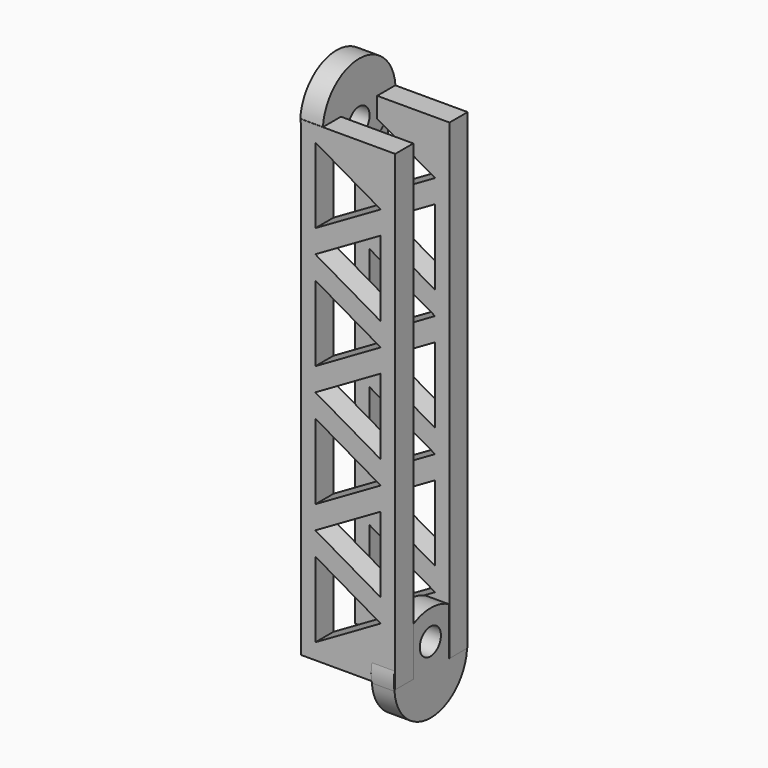
from build123d import *

# Parameters (mm, degrees)
SKETCH019_R      = 3.5
EXTRUDE018_DEPTH = 6
SKETCH018_W      = 25
SKETCH018_H      = 125
EXTRUDE017_DEPTH = 6
SKETCH020_R      = 3.5
EXTRUDE019_DEPTH = 6


with BuildPart() as union_parte_arriba:
    # Sketch019 → Extrude018 (new body)
    with BuildSketch(Plane.YZ):
        with BuildLine():
            ThreePointArc((82.036674, 148.659016), (70.036674, 159.65499), (58.036674, 148.659016))
            ThreePointArc((58.036674, 148.659016), (70.036674, 137.663042), (82.036674, 148.659016))
        make_face()
        with Locations((69.991982, 144.998688)):
            Circle(SKETCH019_R, mode=Mode.SUBTRACT)
    extrude(amount=EXTRUDE018_DEPTH)


with BuildPart() as union_parte_arriba_1:
    # Extrude018 placement: moved
    add(union_parte_arriba.part.moved(Location((72, 0, 0))))


with BuildPart() as palo_triangular:
    # Sketch018 → Extrude017 (new body)
    with BuildSketch(Plane.XZ):
        with Locations((84.677579, 86.042568)):
            Rectangle(SKETCH018_W, SKETCH018_H)
        Polygon((76.017071, 47.742568), (76.017071, 27.742568), (93.337579, 37.742568), align=None, mode=Mode.SUBTRACT)
        Polygon((76.017071, 53.842568), (93.337579, 43.842568), (93.337579, 63.842568), align=None, mode=Mode.SUBTRACT)
        Polygon((76.017071, 79.942568), (76.017071, 59.942568), (93.337579, 69.942568), align=None, mode=Mode.SUBTRACT)
        Polygon((76.017071, 112.142568), (76.017071, 92.142568), (93.337579, 102.142568), align=None, mode=Mode.SUBTRACT)
        Polygon((76.017071, 144.342568), (76.017071, 124.342568), (93.337579, 134.342568), align=None, mode=Mode.SUBTRACT)
        Polygon((76.017071, 86.042568), (93.337579, 96.042568), (93.337579, 76.042568), align=None, mode=Mode.SUBTRACT)
        Polygon((76.017071, 118.242568), (93.337579, 128.242568), (93.337579, 108.242568), align=None, mode=Mode.SUBTRACT)
    extrude(amount=EXTRUDE017_DEPTH)


with BuildPart() as palo_triangular_1:
    # Extrude017 placement: moved
    add(palo_triangular.part.moved(Location((0, 64, 0))))


with BuildPart() as palo_triangular001:
    # Link019 base: copy of Palo triangular
    add(palo_triangular_1.part)


with BuildPart() as palo_triangular001_1:
    # Link019 placement: moved
    add(palo_triangular001.part.moved(Location((0, 18.000008, 0))))


with BuildPart() as obj1:
    # Sketch020 → Extrude019 (new body)
    with BuildSketch(Plane.YZ):
        with BuildLine():
            ThreePointArc((57.996231, 23.111303), (69.948323, 12.063047), (81.996231, 23.006739))
            ThreePointArc((81.996231, 23.006739), (70.060056, 37.708327), (57.996231, 23.111303))
        make_face()
        with Locations((69.867134, 29.92848)):
            Circle(SKETCH020_R, mode=Mode.SUBTRACT)
    extrude(amount=EXTRUDE019_DEPTH)


with BuildPart() as obj1_1:
    # Extrude019 placement: moved
    add(obj1.part.moved(Location((91, 0, 0))))

    # Fusion023: union union parte arriba, Palo triangular001, Palo triangular
    add(union_parte_arriba_1.part)
    add(palo_triangular001_1.part)
    add(palo_triangular_1.part)


solid = obj1_1.part
